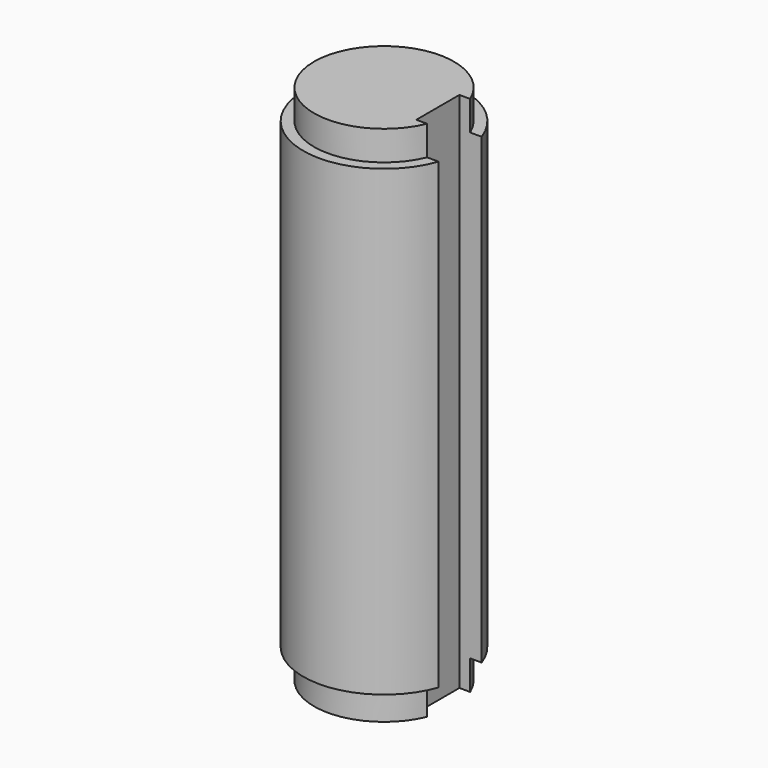
from build123d import *

# Parameters (mm, degrees)
SKETCH_R     = 15
PAD_DEPTH    = 86
SKETCH001_R  = 13
PAD001_DEPTH = 5.5
SKETCH002_R  = 13
PAD002_DEPTH = 5.5
SKETCH003_W  = 5
SKETCH003_H  = 10
POCKET_DEPTH = 117


with BuildPart() as part:
    # Sketch → Pad (new body)
    with BuildSketch(Plane.XY):
        Circle(SKETCH_R)
    extrude(amount=PAD_DEPTH)

    # Sketch001 (on Face3 of Pad) → Pad001 (join)
    with BuildSketch(Plane.XY.offset(86)):
        Circle(SKETCH001_R)
    extrude(amount=PAD001_DEPTH)

    # Sketch002 (on Face2 of Pad001) → Pad002 (join)
    with BuildSketch(Plane(origin=(0, 0, 0), x_dir=(1, 0, 0), z_dir=(0, 0, -1))):
        Circle(SKETCH002_R)
    extrude(amount=PAD002_DEPTH)

    # Sketch003 (on Face6 of Pad002) → Pocket (cut)
    with BuildSketch(Plane(origin=(0, 0, -5.5), x_dir=(1, 0, 0), z_dir=(0, 0, -1))):
        with Locations((12.5, 0)):
            Rectangle(SKETCH003_W, SKETCH003_H)
    extrude(amount=-POCKET_DEPTH, mode=Mode.SUBTRACT)


solid = part.part
